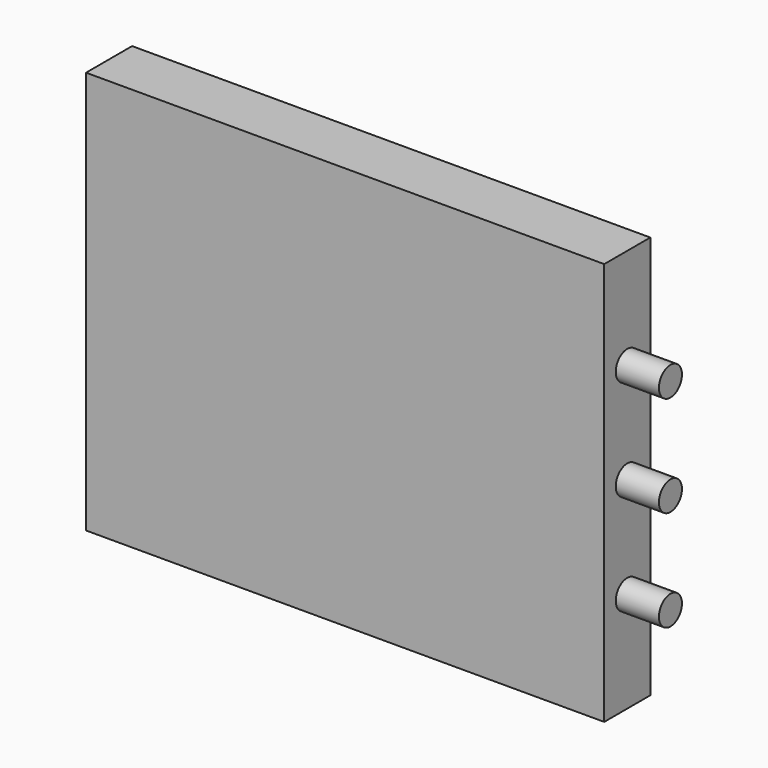
from build123d import *

# Parameters (mm, degrees)
F0_W     = 180
F0_H     = 140
F1_DEPTH = 20
F2_R     = 5
F3_DEPTH = 15


with BuildPart() as f1:
    # F0 (on Front) → F1 (new body)
    with BuildSketch(Plane.XZ):
        with Locations((-8.79214, 6.683301)):
            Rectangle(F0_W, F0_H)
    extrude(amount=F1_DEPTH)


with BuildPart() as f3:
    # F2 (on face) → F3 (new body)
    with BuildSketch(Plane.YZ.offset(81.20786)):
        with Locations((-10, 41.683301)):
            Circle(F2_R)
        with Locations((-10, 6.683301)):
            Circle(F2_R)
        with Locations((-10, -28.316699)):
            Circle(F2_R)
    extrude(amount=F3_DEPTH)


solid = Compound([f1.part, f3.part])
